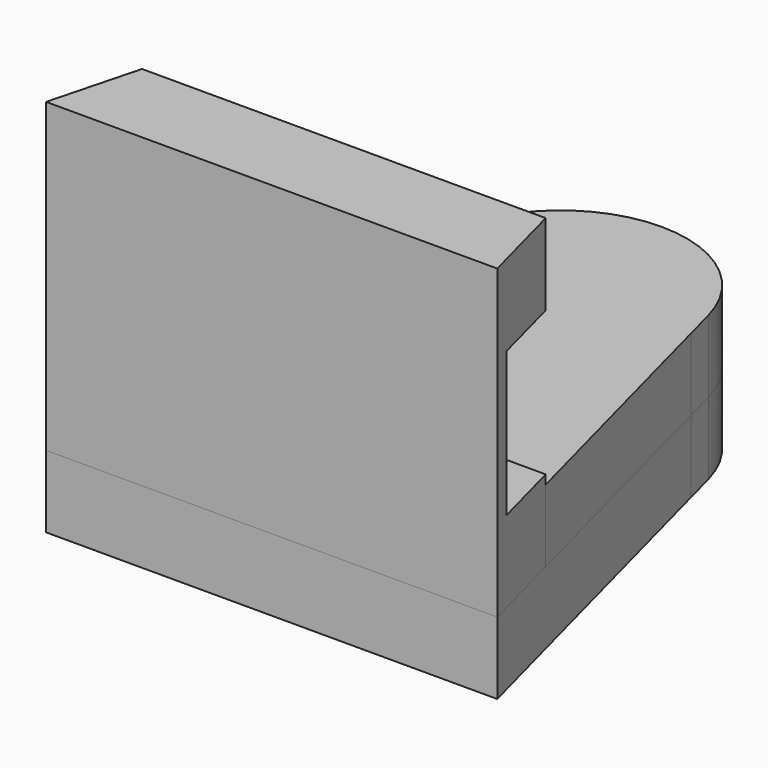
from build123d import *

# Parameters (mm, degrees)
F1_DEPTH = 8
F3_DEPTH = 8
F5_DEPTH = 34
F6_W     = 16.659708
F6_H     = 16
F6_W_2   = 8.340292
F7_ANGLE = -50


with BuildPart() as f1:
    # F0 (on Top) → F1 (new body)
    with BuildSketch(Plane.XY):
        with BuildLine():
            Line((14.476408, 0), (13.53927, 3.562044))
            ThreePointArc((13.53927, 3.562044), (0, 14), (-13.53927, 3.562044))
            Line((-13.53927, 3.562044), (-14.476408, 0))
            Line((-14.476408, 0), (-25, -40))
            Line((-25, -40), (25, -40))
            Line((25, -40), (14.476408, 0))
        make_face()
        with BuildLine():
            ThreePointArc((-4, 0), (0, 4), (4, 0))
            ThreePointArc((4, 0), (0, -4), (-4, 0))
        make_face(mode=Mode.SUBTRACT)
    extrude(amount=-F1_DEPTH)


with BuildPart() as f3:
    # F2 (on Top) → F3 (new body)
    with BuildSketch(Plane.XY):
        with BuildLine():
            Line((14.476408, 0), (13.53927, 3.562044))
            ThreePointArc((13.53927, 3.562044), (0, 14), (-13.53927, 3.562044))
            Line((-13.53927, 3.562044), (-14.476408, 0))
            Line((-14.476408, 0), (-25, -40))
            Line((-25, -40), (25, -40))
            Line((25, -40), (14.476408, 0))
        make_face()
    extrude(amount=F3_DEPTH)


with BuildPart() as f5:
    # F4 (on face) → F5 (new body)
    with BuildSketch(Plane.XY):
        Polygon((-22.369102, -30), (-25, -40), (25, -40), (22.369102, -30), align=None)
    extrude(amount=F5_DEPTH)

    # F6 (on face) → F7 (revolve, cut)
    with BuildSketch(Plane(origin=(13.53927, 3.562044, 0), x_dir=(-0.254432, 0.967091, 0), z_dir=(0.967091, 0.254432, 0))):
        with Locations((-26.374277, 17)):
            Rectangle(F6_W, F6_H)
        with Locations((-38.874277, 17)):
            Rectangle(F6_W_2, F6_H)
    revolve(axis=Axis((24.491137, -38.065819, 17), (0, 0, -1)), revolution_arc=F7_ANGLE, mode=Mode.SUBTRACT)


solid = Compound([f1.part, f3.part, f5.part])
